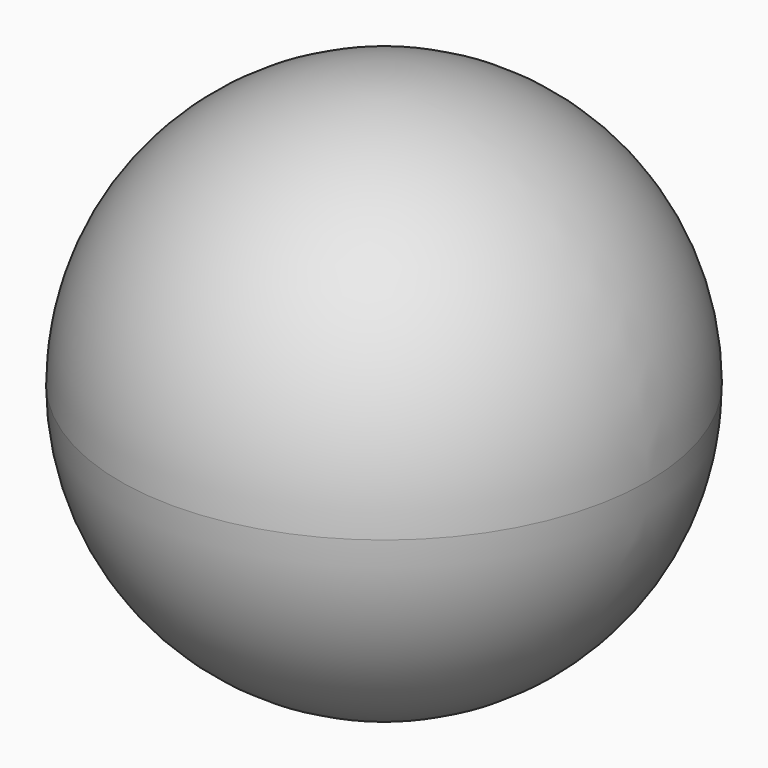
from build123d import *

# Parameters (mm, degrees)
F3_D     = 6.35
F3_DEPTH = 24.875292085


with BuildPart() as f1:
    # F0 (on Front) → F1 (revolve)
    with BuildSketch(Plane.XZ):
        with BuildLine():
            ThreePointArc((0, -24.874292085), (17.5887806105, -17.5887806105), (24.874292085, 0))
            ThreePointArc((24.874292085, 0), (17.5887806105, 17.5887806105), (0, 24.874292085))
            Line((0, 24.874292085), (0, -24.874292085))
        make_face()
    revolve(axis=Axis((0, 0, -8.8516809046), (0, 0, -1)))

    # F3 (through all, one way)
    with BuildSketch(Plane.XZ):
        with Locations((-17.2435343266, 8.2768965513)):
            Circle(F3_D / 2)
    extrude(amount=-F3_DEPTH, mode=Mode.SUBTRACT)


solid = f1.part
